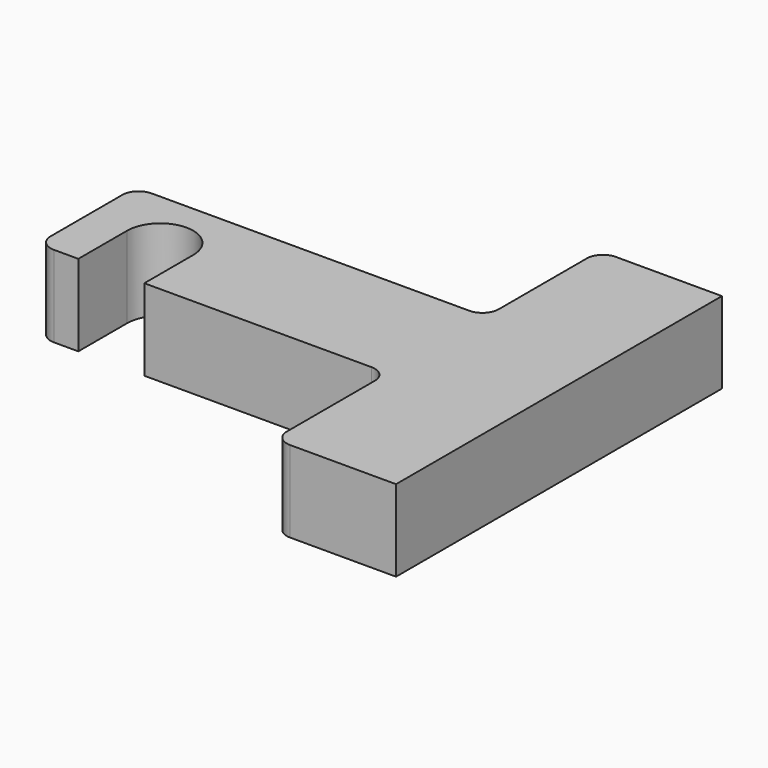
from build123d import *

# Parameters (mm, degrees)
F1_DEPTH = 10


with BuildPart() as f1:
    # F0 (on Top) → F1 (new body)
    with BuildSketch(Plane.XY):
        with BuildLine():
            Line((-8.4, -7.5), (19.5, -7.5))
            ThreePointArc((19.5, -7.5), (20.914214, -8.085786), (21.5, -9.5))
            Line((21.5, -9.5), (21.5, -23))
            ThreePointArc((21.5, -23), (22.085786, -24.414214), (23.5, -25))
            Line((23.5, -25), (36.5, -25))
            Line((36.5, -25), (36.5, 25))
            Line((36.5, 25), (23.5, 25))
            ThreePointArc((23.5, 25), (22.085786, 24.414214), (21.5, 23))
            Line((21.5, 23), (21.5, 9.5))
            ThreePointArc((21.5, 9.5), (20.914214, 8.085786), (19.5, 7.5))
            Line((19.5, 7.5), (-19.5, 7.5))
            ThreePointArc((-19.5, 7.5), (-20.914214, 6.914214), (-21.5, 5.5))
            Line((-21.5, 5.5), (-21.5, -5.5))
            ThreePointArc((-21.5, -5.5), (-20.914214, -6.914214), (-19.5, -7.5))
            Line((-19.5, -7.5), (-16.5, -7.5))
            Line((-16.5, -7.5), (-16.5, 0))
            ThreePointArc((-16.5, 0), (-12.45, 4.05), (-8.4, 0))
            Line((-8.4, 0), (-8.4, -7.5))
        make_face()
    extrude(amount=F1_DEPTH)


solid = f1.part
